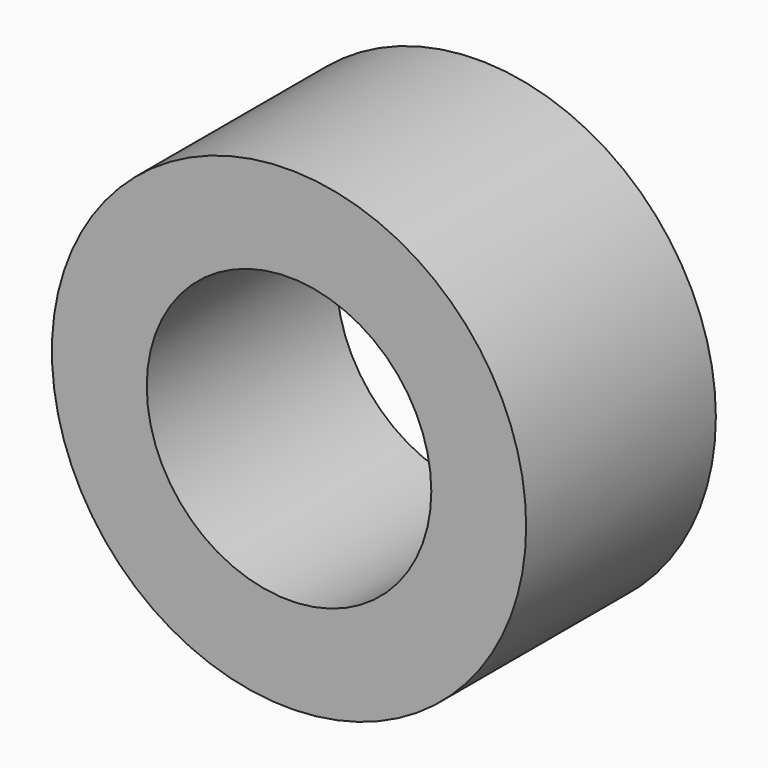
from build123d import *

# Parameters (mm, degrees)
CYLINDER003_R     = 3
CYLINDER003_DEPTH = 9
CYLINDER004_R     = 5
CYLINDER004_DEPTH = 5


with BuildPart() as cilindro:
    # Cylinder003 → Cylinder003 (new body)
    with BuildSketch(Plane(origin=(6.007083, -5.3, 98.271654), x_dir=(1, 0, 0), z_dir=(0, -1, 0))):
        Circle(CYLINDER003_R)
    extrude(amount=CYLINDER003_DEPTH)


with BuildPart() as obj1:
    # Cylinder004 → Cylinder004 (new body)
    with BuildSketch(Plane(origin=(6.007083, -5.3, 98.271654), x_dir=(1, 0, 0), z_dir=(0, -1, 0))):
        Circle(CYLINDER004_R)
    extrude(amount=CYLINDER004_DEPTH)

    # Cut016: cut Cilindro
    add(cilindro.part, mode=Mode.SUBTRACT)


solid = obj1.part
